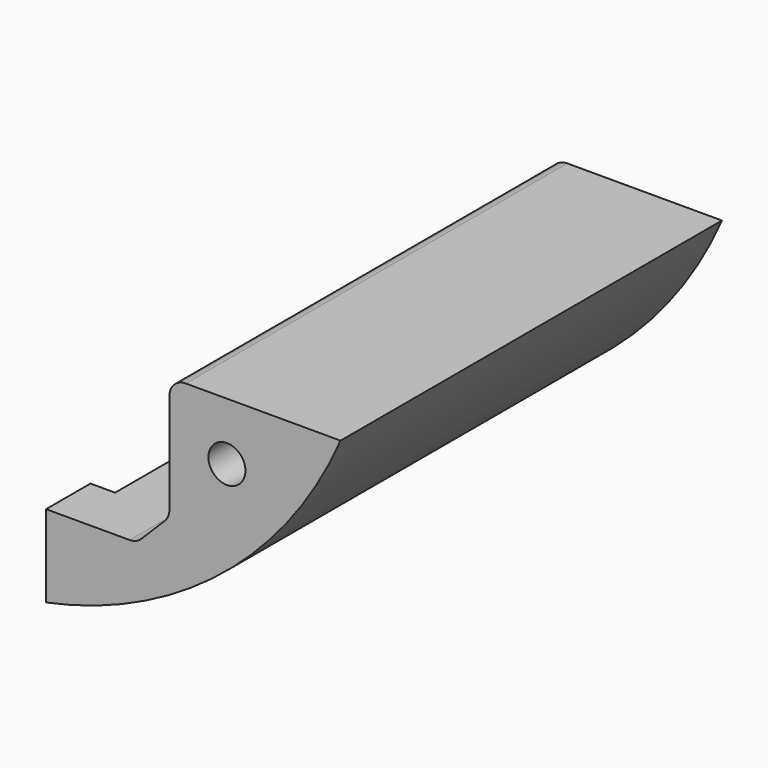
from build123d import *

# Parameters (mm, degrees)
F1_DEPTH = 29
F2_W     = 15
F2_H     = 18.9897948557
F3_DEPTH = 58.001
F4_SIZE  = 4
F6_DEPTH = 3
F7_R     = 2.25
F8_DEPTH = 58.001
F9_R     = 2


with BuildPart() as f1:
    # F0 (on Front) → F1 (new body, symmetric)
    with BuildSketch(Plane.XZ):
        with BuildLine():
            Line((10, -20), (10, -48.9897948557))
            ThreePointArc((10, -48.9897948557), (31.4520402548, -38.8686141226), (45.8257569496, -20))
            Line((45.8257569496, -20), (10, -20))
        make_face()
    extrude(amount=F1_DEPTH, both=True)

    # F2 (on face) → F3 (cut, through all)
    with BuildSketch(Plane.XZ.offset(29)):
        with Locations((17.5, -29.4948974278)):
            Rectangle(F2_W, F2_H)
    extrude(amount=-F3_DEPTH, mode=Mode.SUBTRACT)

    # F4
    f4_edges = [f1.edges().sort_by_distance(p)[0] for p in [
        (25, 0, -38.989795),
    ]]
    chamfer(f4_edges, length=F4_SIZE)

    # F5 (on face) → F6 (cut)
    with BuildSketch(Plane(origin=(10, 0, 0), x_dir=(0, -1, 0), z_dir=(-1, 0, 0))):
        with BuildLine():
            Line((-16, -38.9897948557), (-16, -44))
            ThreePointArc((-16, -44), (-14.1480502971, -46.7716385975), (-10.8786796564, -46.1213203436))
            Line((-10.8786796564, -46.1213203436), (-3.7471541685, -38.9897948557))
            Line((-3.7471541685, -38.9897948557), (-16, -38.9897948557))
        make_face()
        with BuildLine():
            Line((10, -38.9897948557), (10, -44))
            ThreePointArc((10, -44), (11.8519497029, -46.7716385975), (15.1213203436, -46.1213203436))
            Line((15.1213203436, -46.1213203436), (22.2528458315, -38.9897948557))
            Line((22.2528458315, -38.9897948557), (10, -38.9897948557))
        make_face()
    extrude(amount=-F6_DEPTH, mode=Mode.SUBTRACT)

    # F7 (on face) → F8 (cut, through all)
    with BuildSketch(Plane.XZ.offset(29)):
        with Locations((32, -27)):
            Circle(F7_R)
    extrude(amount=-F8_DEPTH, mode=Mode.SUBTRACT)

    # F9
    f9_edges = [f1.edges().sort_by_distance(p)[0] for p in [
        (25, 0, -20),
        (25, 0, -34.989795),
        (21, 0, -38.989795),
    ]]
    fillet(f9_edges, radius=F9_R)


solid = f1.part
